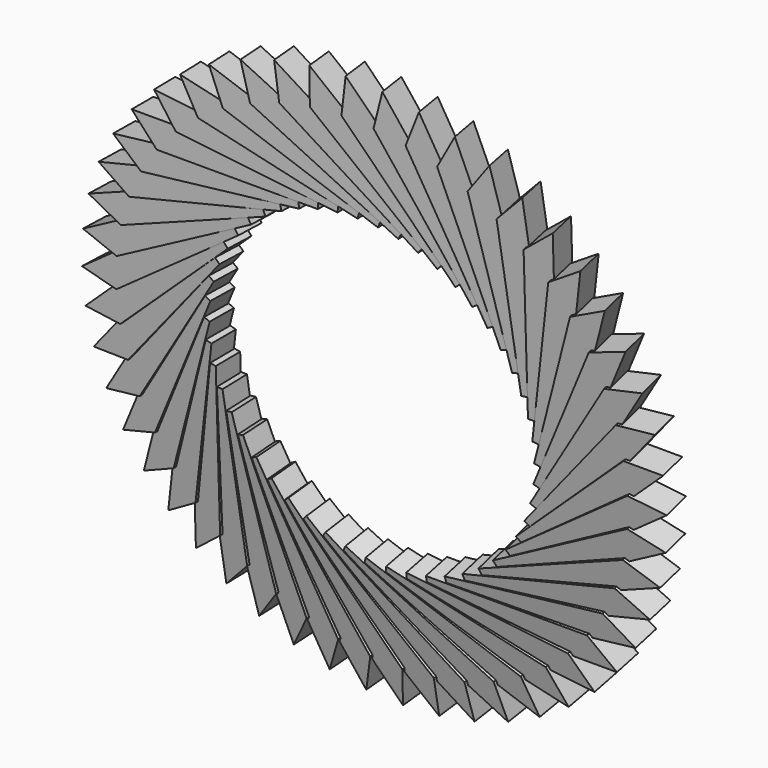
from build123d import *

# Parameters (mm, degrees)
F1_DEPTH = 7.874
F3_COUNT = 50


with BuildPart() as f1:
    # F0 (on Front) → F1 (new body)
    with BuildSketch(Plane.XZ):
        Polygon((-58.453999, 44.948995), (-24.825877, 44.948995), (-26.912292, 52.924521), (-65.747246, 52.924521), align=None)
        Polygon((-26.912292, 52.924521), (-24.825877, 44.948995), (-11.591764, 44.948995), (-11.591764, 52.924521), align=None)
    extrude(amount=F1_DEPTH)


with BuildPart() as f3_1:
    # F3: instance of F1
    add(f1.part.rotate(Axis((0, 19.015783, 2.157403), (0, 0.993626, 0.11273)), 1 * 360 / F3_COUNT))


with BuildPart() as f3_2:
    # F3: instance of F1
    add(f1.part.rotate(Axis((0, 19.015783, 2.157403), (0, 0.993626, 0.11273)), 2 * 360 / F3_COUNT))


with BuildPart() as f3_3:
    # F3: instance of F1
    add(f1.part.rotate(Axis((0, 19.015783, 2.157403), (0, 0.993626, 0.11273)), 3 * 360 / F3_COUNT))


with BuildPart() as f3_4:
    # F3: instance of F1
    add(f1.part.rotate(Axis((0, 19.015783, 2.157403), (0, 0.993626, 0.11273)), 4 * 360 / F3_COUNT))


with BuildPart() as f3_5:
    # F3: instance of F1
    add(f1.part.rotate(Axis((0, 19.015783, 2.157403), (0, 0.993626, 0.11273)), 5 * 360 / F3_COUNT))


with BuildPart() as f3_6:
    # F3: instance of F1
    add(f1.part.rotate(Axis((0, 19.015783, 2.157403), (0, 0.993626, 0.11273)), 6 * 360 / F3_COUNT))


with BuildPart() as f3_7:
    # F3: instance of F1
    add(f1.part.rotate(Axis((0, 19.015783, 2.157403), (0, 0.993626, 0.11273)), 7 * 360 / F3_COUNT))


with BuildPart() as f3_8:
    # F3: instance of F1
    add(f1.part.rotate(Axis((0, 19.015783, 2.157403), (0, 0.993626, 0.11273)), 8 * 360 / F3_COUNT))


with BuildPart() as f3_9:
    # F3: instance of F1
    add(f1.part.rotate(Axis((0, 19.015783, 2.157403), (0, 0.993626, 0.11273)), 9 * 360 / F3_COUNT))


with BuildPart() as f3_10:
    # F3: instance of F1
    add(f1.part.rotate(Axis((0, 19.015783, 2.157403), (0, 0.993626, 0.11273)), 10 * 360 / F3_COUNT))


with BuildPart() as f3_11:
    # F3: instance of F1
    add(f1.part.rotate(Axis((0, 19.015783, 2.157403), (0, 0.993626, 0.11273)), 11 * 360 / F3_COUNT))


with BuildPart() as f3_12:
    # F3: instance of F1
    add(f1.part.rotate(Axis((0, 19.015783, 2.157403), (0, 0.993626, 0.11273)), 12 * 360 / F3_COUNT))


with BuildPart() as f3_13:
    # F3: instance of F1
    add(f1.part.rotate(Axis((0, 19.015783, 2.157403), (0, 0.993626, 0.11273)), 13 * 360 / F3_COUNT))


with BuildPart() as f3_14:
    # F3: instance of F1
    add(f1.part.rotate(Axis((0, 19.015783, 2.157403), (0, 0.993626, 0.11273)), 14 * 360 / F3_COUNT))


with BuildPart() as f3_15:
    # F3: instance of F1
    add(f1.part.rotate(Axis((0, 19.015783, 2.157403), (0, 0.993626, 0.11273)), 15 * 360 / F3_COUNT))


with BuildPart() as f3_16:
    # F3: instance of F1
    add(f1.part.rotate(Axis((0, 19.015783, 2.157403), (0, 0.993626, 0.11273)), 16 * 360 / F3_COUNT))


with BuildPart() as f3_17:
    # F3: instance of F1
    add(f1.part.rotate(Axis((0, 19.015783, 2.157403), (0, 0.993626, 0.11273)), 17 * 360 / F3_COUNT))


with BuildPart() as f3_18:
    # F3: instance of F1
    add(f1.part.rotate(Axis((0, 19.015783, 2.157403), (0, 0.993626, 0.11273)), 18 * 360 / F3_COUNT))


with BuildPart() as f3_19:
    # F3: instance of F1
    add(f1.part.rotate(Axis((0, 19.015783, 2.157403), (0, 0.993626, 0.11273)), 19 * 360 / F3_COUNT))


with BuildPart() as f3_20:
    # F3: instance of F1
    add(f1.part.rotate(Axis((0, 19.015783, 2.157403), (0, 0.993626, 0.11273)), 20 * 360 / F3_COUNT))


with BuildPart() as f3_21:
    # F3: instance of F1
    add(f1.part.rotate(Axis((0, 19.015783, 2.157403), (0, 0.993626, 0.11273)), 21 * 360 / F3_COUNT))


with BuildPart() as f3_22:
    # F3: instance of F1
    add(f1.part.rotate(Axis((0, 19.015783, 2.157403), (0, 0.993626, 0.11273)), 22 * 360 / F3_COUNT))


with BuildPart() as f3_23:
    # F3: instance of F1
    add(f1.part.rotate(Axis((0, 19.015783, 2.157403), (0, 0.993626, 0.11273)), 23 * 360 / F3_COUNT))


with BuildPart() as f3_24:
    # F3: instance of F1
    add(f1.part.rotate(Axis((0, 19.015783, 2.157403), (0, 0.993626, 0.11273)), 24 * 360 / F3_COUNT))


with BuildPart() as f3_25:
    # F3: instance of F1
    add(f1.part.rotate(Axis((0, 19.015783, 2.157403), (0, 0.993626, 0.11273)), 25 * 360 / F3_COUNT))


with BuildPart() as f3_26:
    # F3: instance of F1
    add(f1.part.rotate(Axis((0, 19.015783, 2.157403), (0, 0.993626, 0.11273)), 26 * 360 / F3_COUNT))


with BuildPart() as f3_27:
    # F3: instance of F1
    add(f1.part.rotate(Axis((0, 19.015783, 2.157403), (0, 0.993626, 0.11273)), 27 * 360 / F3_COUNT))


with BuildPart() as f3_28:
    # F3: instance of F1
    add(f1.part.rotate(Axis((0, 19.015783, 2.157403), (0, 0.993626, 0.11273)), 28 * 360 / F3_COUNT))


with BuildPart() as f3_29:
    # F3: instance of F1
    add(f1.part.rotate(Axis((0, 19.015783, 2.157403), (0, 0.993626, 0.11273)), 29 * 360 / F3_COUNT))


with BuildPart() as f3_30:
    # F3: instance of F1
    add(f1.part.rotate(Axis((0, 19.015783, 2.157403), (0, 0.993626, 0.11273)), 30 * 360 / F3_COUNT))


with BuildPart() as f3_31:
    # F3: instance of F1
    add(f1.part.rotate(Axis((0, 19.015783, 2.157403), (0, 0.993626, 0.11273)), 31 * 360 / F3_COUNT))


with BuildPart() as f3_32:
    # F3: instance of F1
    add(f1.part.rotate(Axis((0, 19.015783, 2.157403), (0, 0.993626, 0.11273)), 32 * 360 / F3_COUNT))


with BuildPart() as f3_33:
    # F3: instance of F1
    add(f1.part.rotate(Axis((0, 19.015783, 2.157403), (0, 0.993626, 0.11273)), 33 * 360 / F3_COUNT))


with BuildPart() as f3_34:
    # F3: instance of F1
    add(f1.part.rotate(Axis((0, 19.015783, 2.157403), (0, 0.993626, 0.11273)), 34 * 360 / F3_COUNT))


with BuildPart() as f3_35:
    # F3: instance of F1
    add(f1.part.rotate(Axis((0, 19.015783, 2.157403), (0, 0.993626, 0.11273)), 35 * 360 / F3_COUNT))


with BuildPart() as f3_36:
    # F3: instance of F1
    add(f1.part.rotate(Axis((0, 19.015783, 2.157403), (0, 0.993626, 0.11273)), 36 * 360 / F3_COUNT))


with BuildPart() as f3_37:
    # F3: instance of F1
    add(f1.part.rotate(Axis((0, 19.015783, 2.157403), (0, 0.993626, 0.11273)), 37 * 360 / F3_COUNT))


with BuildPart() as f3_38:
    # F3: instance of F1
    add(f1.part.rotate(Axis((0, 19.015783, 2.157403), (0, 0.993626, 0.11273)), 38 * 360 / F3_COUNT))


with BuildPart() as f3_39:
    # F3: instance of F1
    add(f1.part.rotate(Axis((0, 19.015783, 2.157403), (0, 0.993626, 0.11273)), 39 * 360 / F3_COUNT))


with BuildPart() as f3_40:
    # F3: instance of F1
    add(f1.part.rotate(Axis((0, 19.015783, 2.157403), (0, 0.993626, 0.11273)), 40 * 360 / F3_COUNT))


with BuildPart() as f3_41:
    # F3: instance of F1
    add(f1.part.rotate(Axis((0, 19.015783, 2.157403), (0, 0.993626, 0.11273)), 41 * 360 / F3_COUNT))


with BuildPart() as f3_42:
    # F3: instance of F1
    add(f1.part.rotate(Axis((0, 19.015783, 2.157403), (0, 0.993626, 0.11273)), 42 * 360 / F3_COUNT))


with BuildPart() as f3_43:
    # F3: instance of F1
    add(f1.part.rotate(Axis((0, 19.015783, 2.157403), (0, 0.993626, 0.11273)), 43 * 360 / F3_COUNT))


with BuildPart() as f3_44:
    # F3: instance of F1
    add(f1.part.rotate(Axis((0, 19.015783, 2.157403), (0, 0.993626, 0.11273)), 44 * 360 / F3_COUNT))


with BuildPart() as f3_45:
    # F3: instance of F1
    add(f1.part.rotate(Axis((0, 19.015783, 2.157403), (0, 0.993626, 0.11273)), 45 * 360 / F3_COUNT))


with BuildPart() as f3_46:
    # F3: instance of F1
    add(f1.part.rotate(Axis((0, 19.015783, 2.157403), (0, 0.993626, 0.11273)), 46 * 360 / F3_COUNT))


with BuildPart() as f3_47:
    # F3: instance of F1
    add(f1.part.rotate(Axis((0, 19.015783, 2.157403), (0, 0.993626, 0.11273)), 47 * 360 / F3_COUNT))


with BuildPart() as f3_48:
    # F3: instance of F1
    add(f1.part.rotate(Axis((0, 19.015783, 2.157403), (0, 0.993626, 0.11273)), 48 * 360 / F3_COUNT))


with BuildPart() as f3_49:
    # F3: instance of F1
    add(f1.part.rotate(Axis((0, 19.015783, 2.157403), (0, 0.993626, 0.11273)), 49 * 360 / F3_COUNT))


solid = Compound([f1.part, f3_1.part, f3_2.part, f3_3.part, f3_4.part, f3_5.part, f3_6.part, f3_7.part, f3_8.part, f3_9.part, f3_10.part, f3_11.part, f3_12.part, f3_13.part, f3_14.part, f3_15.part, f3_16.part, f3_17.part, f3_18.part, f3_19.part, f3_20.part, f3_21.part, f3_22.part, f3_23.part, f3_24.part, f3_25.part, f3_26.part, f3_27.part, f3_28.part, f3_29.part, f3_30.part, f3_31.part, f3_32.part, f3_33.part, f3_34.part, f3_35.part, f3_36.part, f3_37.part, f3_38.part, f3_39.part, f3_40.part, f3_41.part, f3_42.part, f3_43.part, f3_44.part, f3_45.part, f3_46.part, f3_47.part, f3_48.part, f3_49.part])
